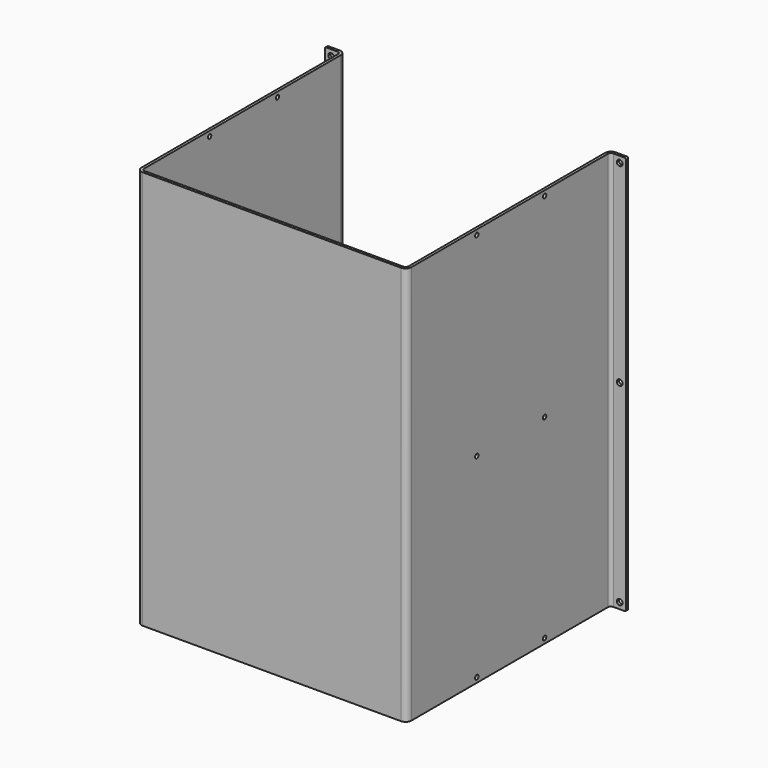
from build123d import *

# Parameters (mm, degrees)
F1_DEPTH = 254
F2_R     = 1.98374
F3_R     = 3.69316
F4_R     = 1.35255
F5_DEPTH = 171.69384
F6_R     = 1.8288
F7_DEPTH = 1.70942
F8_R     = 0.762


with BuildPart() as f1:
    # F0 (on Top) → F1 (new body)
    with BuildSketch(Plane.XY):
        Polygon((0, -161.925), (0, 0), (-11.63066, 0), (-11.63066, -1.70942), (-1.70942, -1.70942), (-1.70942, -163.63442), (169.98442, -163.63442), (169.98442, -1.70942), (179.90566, -1.70942), (179.90566, 0), (168.275, 0), (168.275, -161.925), align=None)
    extrude(amount=F1_DEPTH)

    # F2
    f2_edges = [f1.edges().sort_by_distance(p)[0] for p in [
        (168.275, -161.925, 127),
        (0, -161.925, 127),
        (-1.70942, -1.70942, 127),
        (169.98442, -1.70942, 127),
    ]]
    fillet(f2_edges, radius=F2_R)

    # F3
    f3_edges = [f1.edges().sort_by_distance(p)[0] for p in [
        (0, 0, 127),
        (-1.70942, -163.63442, 127),
        (169.98442, -163.63442, 127),
        (168.275, 0, 127),
    ]]
    fillet(f3_edges, radius=F3_R)

    # F4 (on face) → F5 (cut, through all)
    with BuildSketch(Plane(origin=(-1.70942, 0, 0), x_dir=(0, -1, 0), z_dir=(-1, 0, 0))):
        with Locations((107.95, 3.175)):
            Circle(F4_R)
        with Locations((53.975, 3.175)):
            Circle(F4_R)
        with Locations((53.975, 250.825)):
            Circle(F4_R)
        with Locations((107.95, 250.825)):
            Circle(F4_R)
        with Locations((107.95, 127)):
            Circle(F4_R)
        with Locations((53.975, 127)):
            Circle(F4_R)
    extrude(amount=-F5_DEPTH, mode=Mode.SUBTRACT)

    # F6 (on face) → F7 (cut, through all)
    with BuildSketch(Plane(origin=(0, 0, 0), x_dir=(-1, 0, 0), z_dir=(0, 1, 0))):
        with Locations((-175.93691, 250.03125)):
            Circle(F6_R)
        with Locations((-175.93691, 127)):
            Circle(F6_R)
        with Locations((-175.93691, 3.96875)):
            Circle(F6_R)
        with Locations((7.66191, 3.96875)):
            Circle(F6_R)
        with Locations((7.66191, 127)):
            Circle(F6_R)
        with Locations((7.66191, 250.03125)):
            Circle(F6_R)
    extrude(amount=-F7_DEPTH, mode=Mode.SUBTRACT)

    # F8
    f8_edges = [f1.edges().sort_by_distance(p)[0] for p in [
        (-11.63066, -0.85471, 0),
        (-11.63066, -0.85471, 254),
        (179.90566, -0.85471, 254),
        (179.90566, -0.85471, 0),
    ]]
    fillet(f8_edges, radius=F8_R)


solid = f1.part
